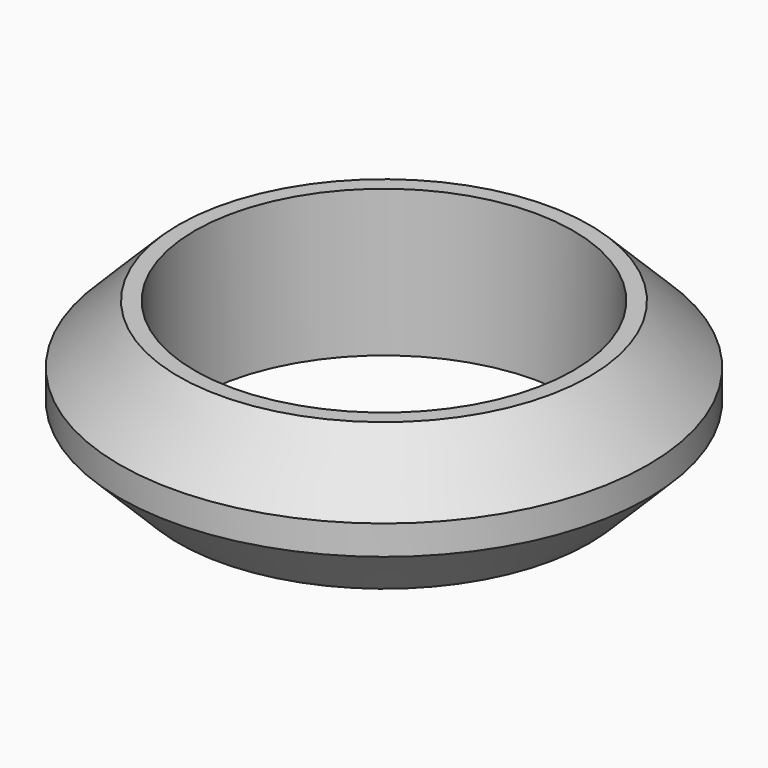
from build123d import *

# Parameters (mm, degrees)
CYLINDER001_R     = 6.45
CYLINDER001_DEPTH = 5
CYLINDER002_R     = 9
CYLINDER002_DEPTH = 5
CHAMFER_SIZE      = 2


with BuildPart() as exterior:
    # Cylinder001 → Cylinder001 (new body)
    with BuildSketch(Plane.XY):
        Circle(CYLINDER001_R)
    extrude(amount=CYLINDER001_DEPTH)


with BuildPart() as cut:
    # Cylinder002 → Cylinder002 (new body)
    with BuildSketch(Plane.XY):
        Circle(CYLINDER002_R)
    extrude(amount=CYLINDER002_DEPTH)

    # Chamfer
    chamfer_edges = [cut.edges().sort_by_distance(p)[0] for p in [
        (-9, 0, 5),
        (-9, 0, 0),
    ]]
    chamfer(chamfer_edges, length=CHAMFER_SIZE)

    # Cut: cut exterior
    add(exterior.part, mode=Mode.SUBTRACT)


solid = cut.part
